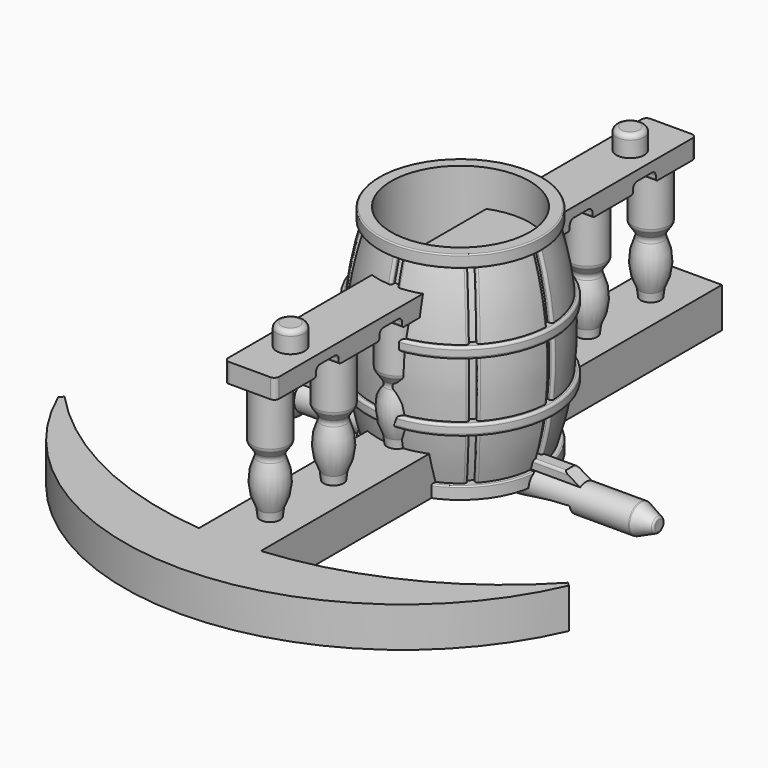
from build123d import *

# Parameters (mm, degrees)
SKETCH001_W            = 49.34
SKETCH001_H            = 2.4
PAD_DEPTH              = 3.6
POCKET_DEPTH           = 5
POCKET001_DEPTH        = 4.001
POCKET001_DEPTH_BACK   = 4.001
FILLET_R               = 0.4
POCKET002_DEPTH        = 0.5
POLARPATTERN_COUNT     = 8
SKETCH006_W            = 2
SKETCH006_H            = 1.8
LINEARPATTERN_COUNT    = 2
LINEARPATTERN_PITCH    = 11.2
FILLET001_R            = 0.4
FILLET002_R            = 0.2
FILLET003_R            = 0.4
SKETCH007_W            = 90
SKETCH007_H            = 2
PAD001_DEPTH           = 3
SKETCH008_W            = 5.6
SKETCH008_H            = 1.4
PAD002_DEPTH           = 2.8
LINEARPATTERN001_COUNT = 7
LINEARPATTERN001_PITCH = 13.0666666667
LINEARPATTERN002_COUNT = 7
LINEARPATTERN002_PITCH = 13.0666666667
SKETCH010_W            = 8.4
SKETCH010_H            = 1.6
PAD003_DEPTH           = 4.2
LINEARPATTERN003_COUNT = 7
LINEARPATTERN003_PITCH = 13.0666666667
SKETCH011_W            = 86.8
SKETCH011_H            = 1.6
PAD004_DEPTH           = 4.2
SKETCH012_R            = 2.3
PAD005_DEPTH           = 3.4
FILLET004_R            = 1.8
FILLET005_R            = 0.6
FILLET006_R            = 0.6
FILLET007_R            = 0.6
FILLET008_R            = 0.8
FILLET009_R            = 1
FILLET010_R            = 1
FILLET011_R            = 0.8
FILLET012_R            = 0.8
FILLET013_R            = 0.4
PAD006_DEPTH           = 6.6


with BuildPart() as cannonball:
    # Sketch → Revolution (revolve)
    with BuildSketch(Plane.XZ):
        with BuildLine():
            ThreePointArc((-25.5, 2.4), (-29.9649110641, 3.7947331922), (-32.7, 0))
            Line((32.7, 0), (-32.7, 0))
            Line((32.7, 1.1), (32.7, 0))
            Line((29.7, 2.4), (32.7, 1.1))
            Line((-25.5, 2.4), (29.7, 2.4))
        make_face()
    revolve(axis=Axis((0, 0, 0), (1, 0, 0)))

    # Sketch001 → Pad (new body)
    with BuildSketch(Plane.XY):
        with Locations((-3.97, 0)):
            Rectangle(SKETCH001_W, SKETCH001_H)
    extrude(amount=PAD_DEPTH)

    # Sketch002 (on Face2 of Pad) → Pocket (cut)
    with BuildSketch(Plane.XZ.offset(1.2)):
        Polygon((20.7, 2.0784609691), (20.7, 3.6), (18.1, 3.6), align=None)
    extrude(amount=-POCKET_DEPTH, mode=Mode.SUBTRACT)

    # Sketch003 → Pocket001 (cut, two sides)
    with BuildSketch(Plane.XZ) as pocket001_sk:
        with BuildLine():
            Line((19.9, -2.4), (19.9, -0.4))
            ThreePointArc((19.9, -0.4), (14.5205400396, -0.9788622096), (9.3, -2.4))
            Line((9.3, -2.4), (19.9, -2.4))
        make_face()
    extrude(amount=-POCKET001_DEPTH, mode=Mode.SUBTRACT)
    extrude(pocket001_sk.sketch, amount=POCKET001_DEPTH_BACK, mode=Mode.SUBTRACT)

    # Fillet
    fillet_edges = [cannonball.edges().sort_by_distance(p)[0] for p in [
        (29.7, 0, -2.4),
        (32.7, 0, -1.1),
        (-4.667544, -1.2, 3.6),
        (-4.667544, 1.2, 3.6),
    ]]
    fillet(fillet_edges, radius=FILLET_R)


with BuildPart() as barrel:
    # Sketch004 → Revolution001 (revolve)
    with BuildSketch(Plane.XZ):
        with BuildLine():
            Line((0, 0), (0, 3.2))
            Line((0, 3.2), (11.4, 3.2))
            Line((11.4, 3.2), (11.4, 35.6))
            Line((11.4, 35.6), (13.4, 35.6))
            Line((13.4, 35.6), (13.4, 33.6))
            Line((13.4, 33.6), (12.6, 33.6))
            ThreePointArc((12.6, 2), (15, 17.8), (12.6, 33.6))
            Line((12.6, 2), (13.4, 2))
            Line((13.4, 2), (13.4, 0))
            Line((13.4, 0), (0, 0))
        make_face()
    revolve(axis=Axis((0, 0, 0), (0, 0, 1)))

    # Sketch005 → Pocket002 (cut, symmetric)
    with BuildSketch(Plane.XZ):
        with BuildLine():
            Line((16.6, 33.6), (11.8, 33.6))
            ThreePointArc((11.8, 2), (14.2366225993, 17.8), (11.8, 33.6))
            Line((11.8, 2), (16.6, 2))
            ThreePointArc((16.6, 2), (18.8319454421, 17.8), (16.6, 33.6))
        make_face()
    pocket002 = extrude(amount=POCKET002_DEPTH, both=True, mode=Mode.SUBTRACT)

    # PolarPattern: Pocket002 ×8 about axis
    polarpattern_axis = Axis((0, 0, 0), (0, 0, 1))
    for i in range(1, POLARPATTERN_COUNT):
        add(pocket002.rotate(polarpattern_axis, i * 360 / POLARPATTERN_COUNT), mode=Mode.SUBTRACT)

    # Sketch006 → Revolution002 (revolve)
    with BuildSketch(Plane.XZ):
        with Locations((14.4, 11.1)):
            Rectangle(SKETCH006_W, SKETCH006_H)
    revolution002 = revolve(axis=Axis((0, 0, 0), (0, 0, 1)))

    # LinearPattern: Revolution002 ×2
    with Locations(*[(0, 0, i * LINEARPATTERN_PITCH) for i in range(1, LINEARPATTERN_COUNT)]):
        add(revolution002)

    # Fillet001
    fillet001_edges = [barrel.edges().sort_by_distance(p)[0] for p in [
        (0.5, -13.913635, 28.45321),
        (0.5, -14.980197, 16.695677),
        (0.5, -13.680275, 6.06326),
        (-0.5, -13.680275, 6.06326),
        (-0.5, -14.980197, 16.695677),
        (-0.5, -13.913635, 28.45321),
        (10.191979, -9.484872, 28.45321),
        (10.946152, -10.239045, 16.695677),
        (10.026969, -9.319862, 6.06326),
        (-10.191979, -9.484872, 28.45321),
        (-10.946152, -10.239045, 16.695677),
        (-10.026969, -9.319862, 6.06326),
        (-9.484872, -10.191979, 28.45321),
        (-10.239045, -10.946152, 16.695677),
        (-9.319862, -10.026969, 6.06326),
        (-13.913635, -0.5, 28.45321),
        (-14.980197, -0.5, 16.695677),
        (-13.680275, -0.5, 6.06326),
        (-14.980197, 0.5, 16.695677),
        (-13.913635, 0.5, 28.45321),
        (-13.680275, 0.5, 6.06326),
        (-10.191979, 9.484872, 28.45321),
        (-10.946152, 10.239045, 16.695677),
        (-10.026969, 9.319862, 6.06326),
        (-9.319862, 10.026969, 6.06326),
        (-10.239045, 10.946152, 16.695677),
        (-9.484872, 10.191979, 28.45321),
        (0.5, 13.913635, 28.45321),
        (0.5, 14.980197, 16.695677),
        (0.5, 13.680275, 6.06326),
        (-0.5, 14.980197, 16.695677),
        (-0.5, 13.680275, 6.06326),
        (-0.5, 13.913635, 28.45321),
        (9.484872, 10.191979, 28.45321),
        (10.239045, 10.946152, 16.695677),
        (9.319862, 10.026969, 6.06326),
        (14.980197, -0.5, 16.695677),
        (13.913635, -0.5, 28.45321),
        (13.680275, -0.5, 6.06326),
        (13.913635, 0.5, 28.45321),
        (14.980197, 0.5, 16.695677),
        (13.680275, 0.5, 6.06326),
        (9.484872, -10.191979, 28.45321),
        (10.239045, -10.946152, 16.695677),
        (9.319862, -10.026969, 6.06326),
        (10.191979, 9.484872, 28.45321),
        (10.946152, 10.239045, 16.695677),
        (10.026969, 9.319862, 6.06326),
    ]]
    fillet(fillet001_edges, radius=FILLET001_R)

    # Fillet002
    fillet002_edges = [barrel.edges().sort_by_distance(p)[0] for p in [
        (-13.4, 0, 35.6),
        (12.379986, 5.127958, 33.6),
        (12.379986, -5.127958, 2),
    ]]
    fillet(fillet002_edges, radius=FILLET002_R)

    # Fillet003
    fillet003_edges = [barrel.edges().sort_by_distance(p)[0] for p in [
        (-15.4, 0, 10.2),
        (-15.4, 0, 12),
        (-15.4, 0, 21.4),
        (-15.4, 0, 23.2),
    ]]
    fillet(fillet003_edges, radius=FILLET003_R)


with BuildPart() as railing:
    # Sketch007 → Pad001 (new body, symmetric)
    with BuildSketch(Plane.YZ):
        with Locations((0, 1)):
            Rectangle(SKETCH007_W, SKETCH007_H)
    extrude(amount=PAD001_DEPTH, both=True)

    # Sketch008 → Pad002 (join, symmetric)
    with BuildSketch(Plane.YZ):
        with Locations((-39.2, 2.7)):
            Rectangle(SKETCH008_W, SKETCH008_H)
    pad002 = extrude(amount=PAD002_DEPTH, both=True)

    # LinearPattern001: Pad002 ×7
    with Locations(*[(0, i * LINEARPATTERN001_PITCH, 0) for i in range(1, LINEARPATTERN001_COUNT)]):
        add(pad002)

    # Sketch009 → Revolution003 (revolve)
    with BuildSketch(Plane(origin=(0, -39.2, 0), x_dir=(0, 1, 0), z_dir=(1, 0, 0))):
        with BuildLine():
            Line((0, 26.4), (3, 26.4))
            Line((3, 26.4), (3, 17.6))
            Line((3, 17.6), (1.8, 15.8))
            ThreePointArc((1.8, 8), (2.8, 11.9), (1.8, 15.8))
            ThreePointArc((1.8, 8), (1.6, 5.7), (1.8, 3.4))
            Line((0, 3.4), (1.8, 3.4))
            Line((0, 26.4), (0, 3.4))
        make_face()
    revolution003 = revolve(axis=Axis((0, -39.2, 0), (0, 0, 1)))

    # LinearPattern002: Revolution003 ×7
    with Locations(*[(0, i * LINEARPATTERN002_PITCH, 0) for i in range(1, LINEARPATTERN002_COUNT)]):
        add(revolution003)

    # Sketch010 → Pad003 (join, symmetric)
    with BuildSketch(Plane.YZ):
        with Locations((-39.2, 27.2)):
            Rectangle(SKETCH010_W, SKETCH010_H)
    pad003 = extrude(amount=PAD003_DEPTH, both=True)

    # LinearPattern003: Pad003 ×7
    with Locations(*[(0, i * LINEARPATTERN003_PITCH, 0) for i in range(1, LINEARPATTERN003_COUNT)]):
        add(pad003)

    # Sketch011 → Pad004 (join, symmetric)
    with BuildSketch(Plane.YZ):
        with Locations((0, 28.8)):
            Rectangle(SKETCH011_W, SKETCH011_H)
    extrude(amount=PAD004_DEPTH, both=True)

    # Sketch012 → Pad005 (join)
    with BuildSketch(Plane.XY.offset(29.6)):
        with Locations((0, 35)):
            Circle(SKETCH012_R)
        with Locations((0, -35)):
            Circle(SKETCH012_R)
    extrude(amount=PAD005_DEPTH)

    # Fillet004
    fillet004_edges = [railing.edges().sort_by_distance(p)[0] for p in [
        (3, -45, 1),
        (-3, -45, 1),
        (3, 45, 1),
        (-3, 45, 1),
    ]]
    fillet(fillet004_edges, radius=FILLET004_R)

    # Fillet005
    fillet005_edges = [railing.edges().sort_by_distance(p)[0] for p in [
        (0, -42, 2),
        (0, -28.933333, 2),
        (0, -15.866667, 2),
        (0, -2.8, 2),
        (0, 10.266667, 2),
        (0, 23.333333, 2),
        (0, 36.4, 2),
        (0, -36.4, 2),
        (0, -23.333333, 2),
        (0, -10.266667, 2),
        (0, 2.8, 2),
        (0, 15.866667, 2),
        (0, 28.933333, 2),
        (0, 42, 2),
    ]]
    fillet(fillet005_edges, radius=FILLET005_R)

    # Fillet006
    fillet006_edges = [railing.edges().sort_by_distance(p)[0] for p in [
        (0, -42.2, 26.4),
        (0, -29.133333, 26.4),
        (0, -16.066667, 26.4),
        (0, -3, 26.4),
        (0, 10.066667, 26.4),
        (0, 23.133333, 26.4),
        (0, 36.2, 26.4),
    ]]
    fillet(fillet006_edges, radius=FILLET006_R)

    # Fillet007
    fillet007_edges = [railing.edges().sort_by_distance(p)[0] for p in [
        (0, -41, 3.4),
        (0, -27.933333, 3.4),
        (0, -14.866667, 3.4),
        (0, -1.8, 3.4),
        (0, 11.266667, 3.4),
        (0, 24.333333, 3.4),
        (0, 37.4, 3.4),
    ]]
    fillet(fillet007_edges, radius=FILLET007_R)

    # Fillet008
    fillet008_edges = [railing.edges().sort_by_distance(p)[0] for p in [
        (4.2, -43.4, 28.8),
        (-4.2, -43.4, 28.8),
        (4.2, 43.4, 28.8),
        (-4.2, 43.4, 28.8),
    ]]
    fillet(fillet008_edges, radius=FILLET008_R)

    # Fillet009
    fillet009_edges = [railing.edges().sort_by_distance(p)[0] for p in [
        (0, -42.2, 17.6),
        (0, -29.133333, 17.6),
        (0, -16.066667, 17.6),
        (0, -3, 17.6),
        (0, 10.066667, 17.6),
        (0, 23.133333, 17.6),
        (0, 36.2, 17.6),
    ]]
    fillet(fillet009_edges, radius=FILLET009_R)

    # Fillet010
    fillet010_edges = [railing.edges().sort_by_distance(p)[0] for p in [
        (0, -41, 15.8),
        (0, -27.933333, 15.8),
        (0, -14.866667, 15.8),
        (0, -1.8, 15.8),
        (0, 11.266667, 15.8),
        (0, 24.333333, 15.8),
        (0, 37.4, 15.8),
    ]]
    fillet(fillet010_edges, radius=FILLET010_R)

    # Fillet011
    fillet011_edges = [railing.edges().sort_by_distance(p)[0] for p in [
        (0, -30.333333, 28),
        (0, -17.266667, 28),
        (0, -4.2, 28),
        (0, 8.866667, 28),
        (0, 21.933333, 28),
        (0, 35, 28),
        (0, 30.333333, 28),
        (0, 17.266667, 28),
        (0, 4.2, 28),
        (0, -8.866667, 28),
        (0, -21.933333, 28),
        (0, -35, 28),
    ]]
    fillet(fillet011_edges, radius=FILLET011_R)

    # Fillet012
    fillet012_edges = [railing.edges().sort_by_distance(p)[0] for p in [
        (-2.3, 35, 33),
        (-2.3, -35, 33),
    ]]
    fillet(fillet012_edges, radius=FILLET012_R)

    # Fillet013
    fillet013_edges = [railing.edges().sort_by_distance(p)[0] for p in [
        (0, 35, 26.4),
        (0, 30.333333, 26.4),
        (0, 21.933333, 26.4),
        (0, 17.266667, 26.4),
        (0, 8.866667, 26.4),
        (0, 4.2, 26.4),
        (0, -4.2, 26.4),
        (0, -8.866667, 26.4),
        (0, -17.266667, 26.4),
        (0, -21.933333, 26.4),
        (0, -30.333333, 26.4),
        (0, -35, 26.4),
    ]]
    fillet(fillet013_edges, radius=FILLET013_R)


with BuildPart() as anchor_main:
    # Sketch013 → Pad006 (new body)
    with BuildSketch(Plane.XY):
        with BuildLine():
            Line((-5.1, 47.5), (5.1, 47.5))
            Line((5.1, 47.5), (5.1, -47.5))
            ThreePointArc((5.1, -47.5), (24.9419325635, -41.9576598489), (41.5, -29.7))
            Line((41.5, -29.7), (42.0847468079, -30.245958946))
            ThreePointArc((-42.0847468079, -30.245958946), (0, -57.784046411), (42.0847468079, -30.245958946))
            Line((-41.5, -29.7), (-42.0847468079, -30.245958946))
            ThreePointArc((-41.5, -29.7), (-24.9419325635, -41.9576598489), (-5.1, -47.5))
            Line((-5.1, -47.5), (-5.1, 47.5))
        make_face()
    extrude(amount=PAD006_DEPTH)


solid = Compound([cannonball.part, barrel.part, railing.part, anchor_main.part])
